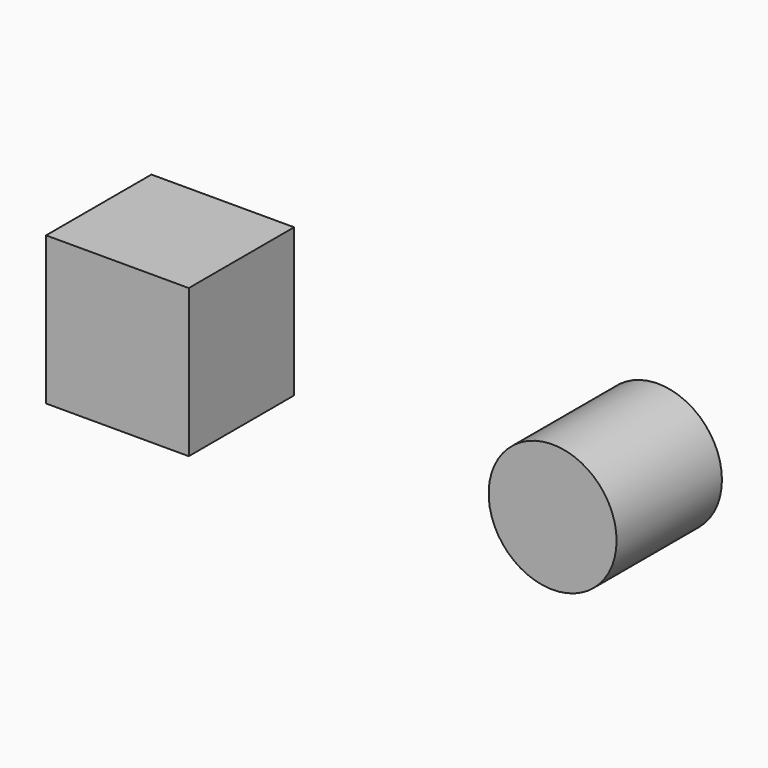
from build123d import *

# Parameters (mm, degrees)
F0_W     = 27.088113
F0_H     = 28.107726
F0_R     = 12.143686
F1_DEPTH = 25
F2_DEPTH = 25


with BuildPart() as f1:
    # F0 (on Front) → F1 (new body)
    with BuildSketch(Plane.XZ):
        with Locations((-32.648298, 39.048709)):
            Rectangle(F0_W, F0_H)
        with Locations((49.971469, 37.28864)):
            Circle(F0_R)
    extrude(amount=F1_DEPTH)


with BuildPart() as f2:
    # F0 (on Front) → F2 (new body)
    with BuildSketch(Plane.XZ):
        with Locations((-32.648298, 39.048709)):
            Rectangle(F0_W, F0_H)
        with Locations((49.971469, 37.28864)):
            Circle(F0_R)
    extrude(amount=F2_DEPTH)


solid = Compound([f1.part, f2.part])
